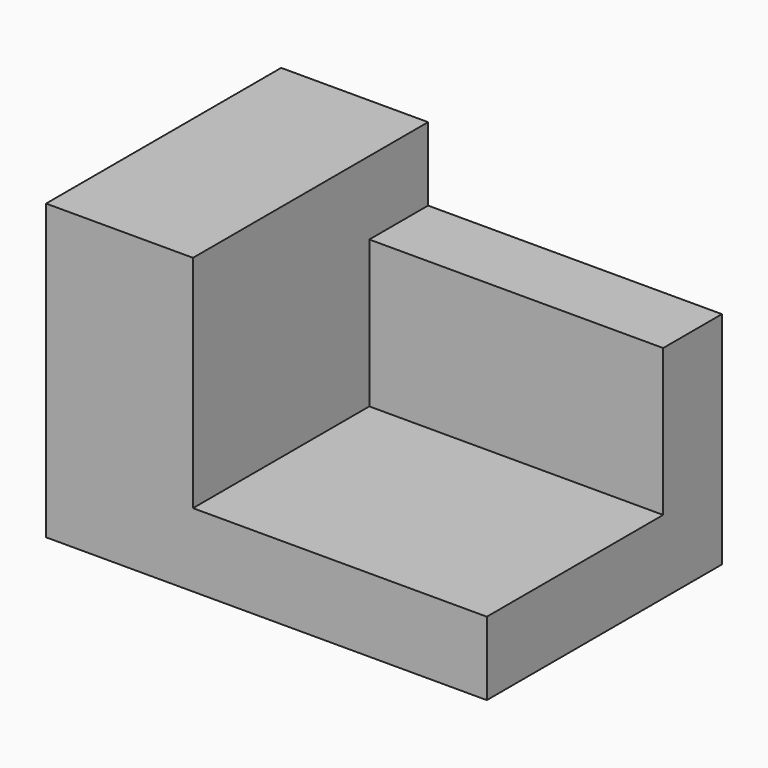
from build123d import *

# Parameters (mm, degrees)
F2_DEPTH = 38.1
F3_DEPTH = 25.4


with BuildPart() as f2:
    # F1 (on Right) → F2 (new body)
    with BuildSketch(Plane.YZ):
        Polygon((0, 6.35), (0, 0), (25.4, 0), (25.4, 19.05), (19.05, 19.05), (19.05, 6.35), align=None)
    extrude(amount=F2_DEPTH)

    # F0 (on Front) → F3 (join)
    with BuildSketch(Plane.XZ):
        Polygon((0, 25.4), (0, 0), (38.1, 0), (38.1, 6.35), (12.7, 6.35), (12.7, 25.4), align=None)
    extrude(amount=-F3_DEPTH)


solid = f2.part
